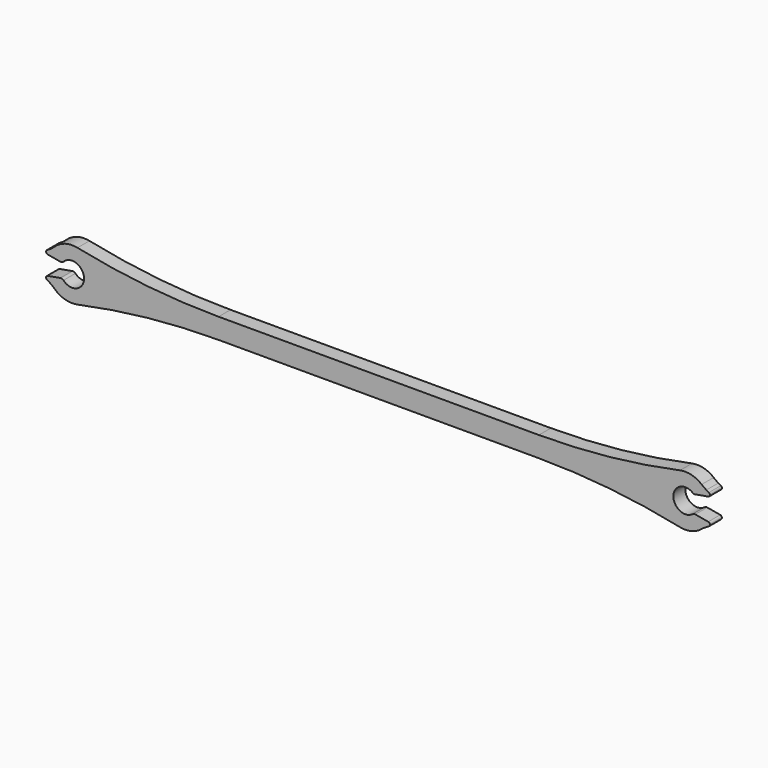
from build123d import *

# Parameters (mm, degrees)
F1_DEPTH = 1.1
F2_R     = 0.3
F3_R     = 100
F4_R     = 0.5
F5_R     = 5


with BuildPart() as f1:
    # F0 (on Front) → F1 (new body, symmetric)
    with BuildSketch(Plane.XZ):
        with BuildLine():
            ThreePointArc((1.224745, -1.25), (-1.75, 0), (1.224745, 1.25))
            Line((1.224745, 1.25), (4.179168, 1.770945))
            Line((4.179168, 1.770945), (2.648788, 2.65451))
            ThreePointArc((2.648788, 2.65451), (-0.698939, 3.684289), (-3.436932, 1.5))
            Line((-3.436932, 1.5), (-86.563068, 1.5))
            ThreePointArc((-86.563068, 1.5), (-89.480722, 3.713873), (-92.893705, 2.385156))
            Line((-92.893705, 2.385156), (-94.390564, 1.520945))
            Line((-94.390564, 1.520945), (-91.436141, 1))
            ThreePointArc((-91.436141, 1), (-88.25, 0), (-91.436141, -1))
            Line((-91.436141, -1), (-94.390564, -1.520945))
            Line((-94.390564, -1.520945), (-92.893705, -2.385156))
            ThreePointArc((-92.893705, -2.385156), (-89.480722, -3.713873), (-86.563068, -1.5))
            Line((-86.563068, -1.5), (-3.436932, -1.5))
            ThreePointArc((-3.436932, -1.5), (-0.698939, -3.684289), (2.648788, -2.65451))
            Line((2.648788, -2.65451), (4.179168, -1.770945))
            Line((4.179168, -1.770945), (1.224745, -1.25))
        make_face()
    extrude(amount=F1_DEPTH, both=True)

    # F2
    f2_edges = [f1.edges().sort_by_distance(p)[0] for p in [
        (4.179168, 0, 1.770945),
        (4.179168, 0, -1.770945),
        (-94.390564, 0, -1.520945),
        (-94.390564, 0, 1.520945),
    ]]
    fillet(f2_edges, radius=F2_R)

    # F3
    f3_edges = [f1.edges().sort_by_distance(p)[0] for p in [
        (-3.436932, 0, 1.5),
        (-3.436932, 0, -1.5),
        (-86.563068, 0, 1.5),
        (-86.563068, 0, -1.5),
    ]]
    fillet(f3_edges, radius=F3_R)

    # F4
    f4_edges = [f1.edges().sort_by_distance(p)[0] for p in [
        (1.224745, 0, 1.25),
        (1.224745, 0, -1.25),
        (-91.436141, 0, 1),
        (-91.436141, 0, -1),
    ]]
    fillet(f4_edges, radius=F4_R)

    # F5
    f5_edges = [f1.edges().sort_by_distance(p)[0] for p in [
        (2.648788, 0, 2.65451),
        (2.648788, 0, -2.65451),
        (-92.893705, 0, -2.385156),
        (-92.893705, 0, 2.385156),
    ]]
    fillet(f5_edges, radius=F5_R)


solid = f1.part
